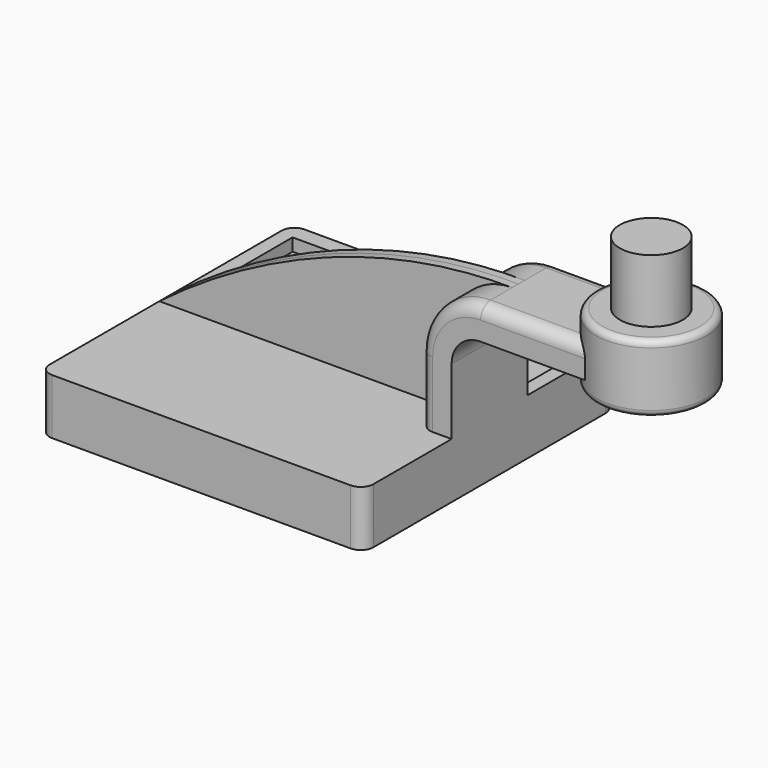
from build123d import *

# Parameters (mm, degrees)
F1_DEPTH  = 63.5
F0_W      = 22.2259311114
F0_H      = 12.7
F2_DEPTH  = 19.05
F3_DEPTH  = 3.175
F5_R      = 5.08
F6_R      = 2.54
F7_R      = 2.54
F8_R      = 12.7
F9_DEPTH  = 25.4
F11_DEPTH = 5.08


with BuildPart() as f1:
    # F0 (on Front) → F1 (new body, symmetric)
    with BuildSketch(Plane.XZ):
        Polygon((52.4926696301, 11.1897839233), (-65.1926696301, 11.1897839233), (-65.1926696301, -11.1897839233), (65.1926696301, -11.1897839233), (65.1926696301, 11.1897839233), align=None)
    extrude(amount=F1_DEPTH, both=True)

    # F0 (on Front) → F2 (join, symmetric)
    with BuildSketch(Plane.XZ):
        with BuildLine():
            Line((52.4926696301, 37.8246089722), (52.4926696301, 11.1897839233))
            Line((52.4926696301, 11.1897839233), (65.1926696301, 11.1897839233))
            Line((65.1926696301, 11.1897839233), (65.1926696301, 37.8246089722))
            ThreePointArc((65.1926696301, 37.8246089722), (68.6156766444, 46.0884789304), (76.8795466026, 49.5114859448))
            Line((76.8795466026, 49.5114859448), (108.1594081487, 49.5114859448))
            Line((108.1594081487, 49.5114859448), (108.1594081487, 62.2114859448))
            Line((108.1594081487, 62.2114859448), (76.8795466026, 62.2114859448))
            ThreePointArc((76.8795466026, 62.2114859448), (59.6354205233, 55.0687350515), (52.4926696301, 37.8246089722))
        make_face()
        with Locations((119.2723737044, 55.8614859448)):
            Rectangle(F0_W, F0_H)
    extrude(amount=F2_DEPTH, both=True)

    # F0 (on Front) → F3 (join, symmetric)
    with BuildSketch(Plane.XZ):
        with BuildLine():
            add(Edge.make_bspline(
                [(-65.1926696301, 11.1897839233), (-26.2716710567, 40.8670417964), (23.8391105086, 62.7601072192), (76.8795466026, 62.2114859448)],
                knots=[0, 0, 0, 0, 150.9560489097, 150.9560489097, 150.9560489097, 150.9560489097], degree=3))
            Line((-65.1926696301, 11.1897839233), (52.4926696301, 11.1897839233))
            Line((52.4926696301, 11.1897839233), (52.4926696301, 37.8246089722))
            ThreePointArc((52.4926696301, 37.8246089722), (59.6354205233, 55.0687350515), (76.8795466026, 62.2114859448))
        make_face()
        with Locations((119.2723737044, 55.8614859448)):
            Rectangle(F0_W, F0_H)
    extrude(amount=F3_DEPTH, both=True)

    # F0 (on Front) → F4 (revolve)
    with BuildSketch(Plane.XZ):
        Polygon((130.3853392601, 71.0308142006), (130.3853392601, 62.2114859448), (130.3853392601, 49.5114859448), (130.3853392601, 43.7861196697), (152.6112703715, 43.7861196697), (152.6112703715, 71.0308142006), align=None)
    revolve(axis=Axis((130.3853392601, 0, 57.4084669352), (0, 0, -1)))

    # F5
    f5_edges = [f1.edges().sort_by_distance(p)[0] for p in [
        (-65.19267, -63.5, 0),
        (65.19267, -63.5, 0),
        (65.19267, 63.5, 0),
        (-65.19267, 63.5, 0),
        (52.49267, 19.05, 24.507196),
        (52.49267, -19.05, 24.507196),
    ]]
    fillet(f5_edges, radius=F5_R)

    # F6
    f6_edges = [f1.edges().sort_by_distance(p)[0] for p in [
        (108.159408, 0, 71.030814),
    ]]
    fillet(f6_edges, radius=F6_R)

    # F7
    f7_edges = [f1.edges().sort_by_distance(p)[0] for p in [
        (108.159408, 0, 43.78612),
    ]]
    fillet(f7_edges, radius=F7_R)

    # F8 (on face) → F9 (join)
    with BuildSketch(Plane.XY.offset(71.0308142006)):
        with Locations((130.3853392601, 0)):
            Circle(F8_R)
    extrude(amount=F9_DEPTH)

    # F10 (on face) → F11 (cut)
    with BuildSketch(Plane.XY.offset(11.1897839233)):
        with BuildLine():
            Line((59.8586685956, 56.9533742964), (-59.6454292536, 56.9533742964))
            Line((-59.6454292536, 56.9533742964), (-59.6454292536, 3.175))
            Line((-59.6454292536, 3.175), (52.4926696301, 3.175))
            Line((52.4926696301, 3.175), (52.4926696301, 13.97))
            ThreePointArc((52.4926696301, 13.97), (53.9805671816, 17.5621024484), (57.5726696301, 19.05))
            Line((57.5726696301, 19.05), (59.8586685956, 19.05))
            Line((59.8586685956, 19.05), (59.8586685956, 56.9533742964))
        make_face()
    extrude(amount=-F11_DEPTH, mode=Mode.SUBTRACT)


solid = f1.part
